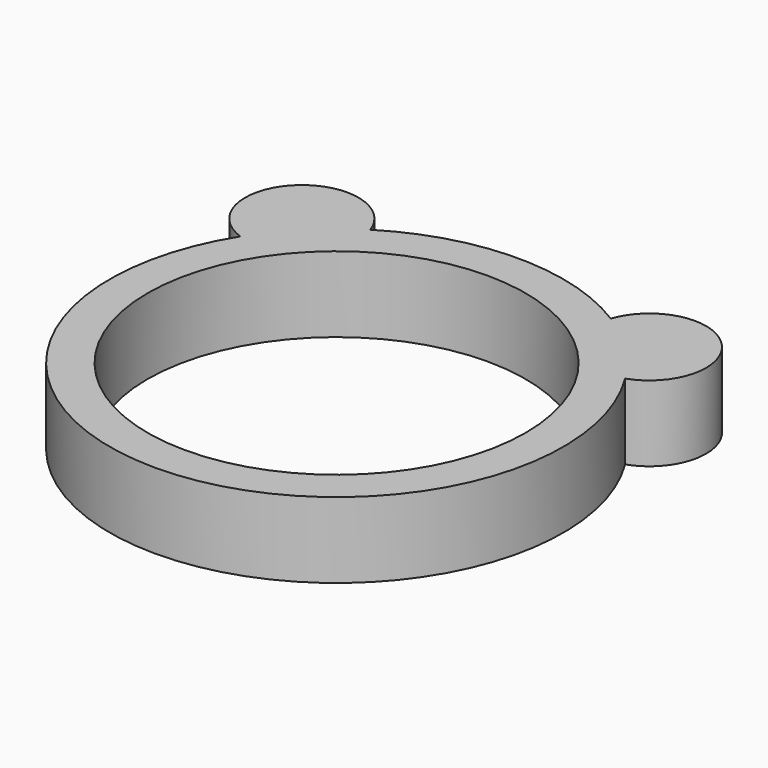
from build123d import *

# Parameters (mm, degrees)
SKETCH_R     = 12
SKETCH_R_2   = 10
PAD_DEPTH    = 4
SKETCH001_R  = 3
PAD001_DEPTH = 4


with BuildPart() as part:
    # Sketch → Pad (new body)
    with BuildSketch(Plane.XY):
        Circle(SKETCH_R)
        Circle(SKETCH_R_2, mode=Mode.SUBTRACT)
    extrude(amount=PAD_DEPTH)

    # Sketch001 → Pad001 (join)
    with BuildSketch(Plane.XY):
        with Locations((-9.192388, 9.192388)):
            Circle(SKETCH001_R)
    pad001 = extrude(amount=PAD001_DEPTH)

    # Mirrored: Pad001 across YZ
    add(pad001.mirror(Plane.YZ))


solid = part.part
